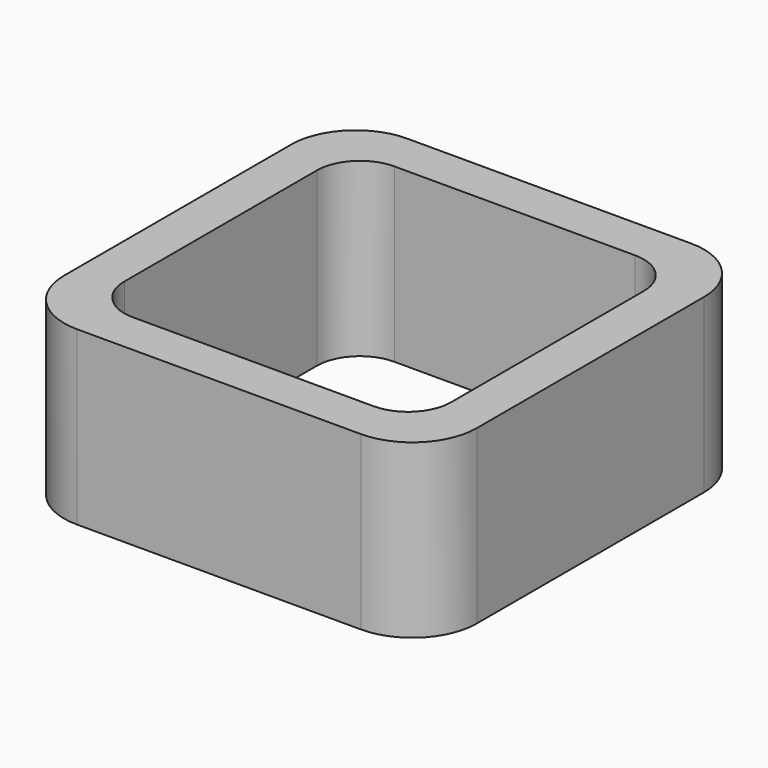
from build123d import *

# Parameters (mm, degrees)
EXTRUDE_DEPTH = 50


with BuildPart() as part:
    # Sketch → Extrude (new body)
    with BuildSketch(Plane.XY):
        with BuildLine():
            Line((-41.25, 60), (41.25, 60))
            ThreePointArc((60, 41.25), (54.508252, 54.508252), (41.25, 60))
            Line((60, 41.25), (60, -41.25))
            ThreePointArc((41.25, -60), (54.508252, -54.508252), (60, -41.25))
            Line((41.25, -60), (-41.25, -60))
            ThreePointArc((-60, -41.25), (-54.508252, -54.508252), (-41.25, -60))
            Line((-60, -41.25), (-60, 41.25))
            ThreePointArc((-41.25, 60), (-54.508252, 54.508252), (-60, 41.25))
        make_face()
        with BuildLine():
            Line((-35, 47.5), (35, 47.5))
            ThreePointArc((47.5, 35), (43.838835, 43.838835), (35, 47.5))
            Line((47.5, 35), (47.5, -35))
            ThreePointArc((35, -47.5), (43.838835, -43.838835), (47.5, -35))
            Line((35, -47.5), (-35, -47.5))
            ThreePointArc((-47.5, -35), (-43.838835, -43.838835), (-35, -47.5))
            Line((-47.5, -35), (-47.5, 35))
            ThreePointArc((-35, 47.5), (-43.838835, 43.838835), (-47.5, 35))
        make_face(mode=Mode.SUBTRACT)
    extrude(amount=EXTRUDE_DEPTH)


solid = part.part
